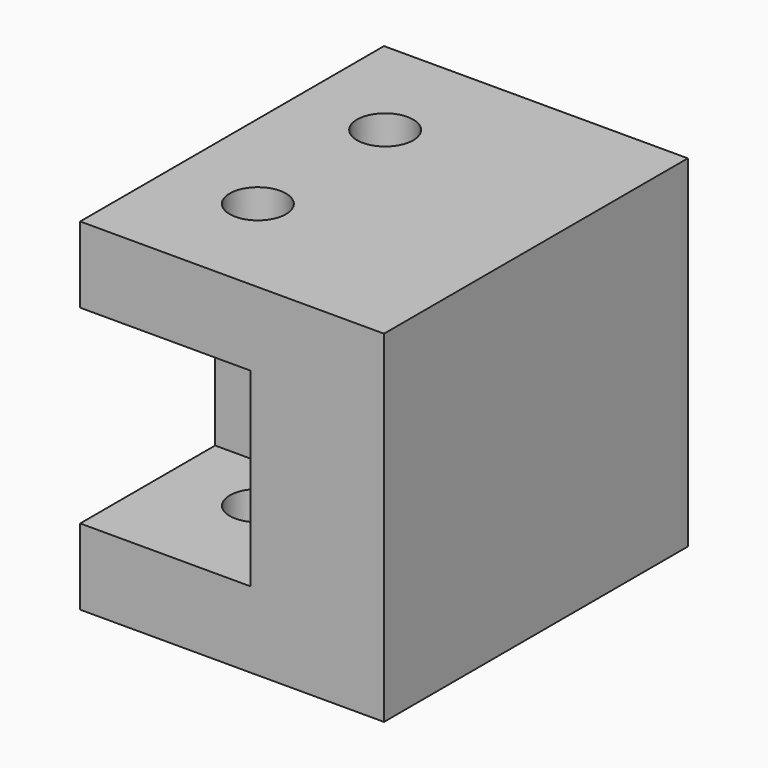
from build123d import *

# Parameters (mm, degrees)
F0_W     = 20
F0_H     = 25
F0_R     = 1.85
F1_DEPTH = 5
F2_W     = 11.216741
F2_H     = 3.175
F3_DEPTH = 12.5
F4_W     = 20
F4_H     = 25
F4_R     = 1.85
F5_DEPTH = 5


with BuildPart() as f1:
    # F0 (on Top) → F1 (new body)
    with BuildSketch(Plane.XY):
        with Locations((-17.203618, -5.25)):
            Rectangle(F0_W, F0_H)
        with Locations((-21.303618, -10.5)):
            Circle(F0_R, mode=Mode.SUBTRACT)
        with Locations((-21.303618, 0)):
            Circle(F0_R, mode=Mode.SUBTRACT)
    extrude(amount=F1_DEPTH)

    # F2 (on face) → F3 (join)
    with BuildSketch(Plane.XY.offset(5)):
        with Locations((-21.595247, -5.058202)):
            Rectangle(F2_W, F2_H)
        Polygon((-7.203618, -17.75), (-7.203618, 7.25), (-15.986877, 7.25), (-15.986877, -3.470702), (-15.986877, -6.645702), (-15.986877, -17.75), align=None)
    extrude(amount=F3_DEPTH)

    # F4 (on face) → F5 (join)
    with BuildSketch(Plane.XY.offset(17.5)):
        with Locations((-17.203618, -5.25)):
            Rectangle(F4_W, F4_H)
        with Locations((-21.298807, -10.511792)):
            Circle(F4_R, mode=Mode.SUBTRACT)
        with Locations((-21.3289, 0)):
            Circle(F4_R, mode=Mode.SUBTRACT)
    extrude(amount=F5_DEPTH)


solid = f1.part
